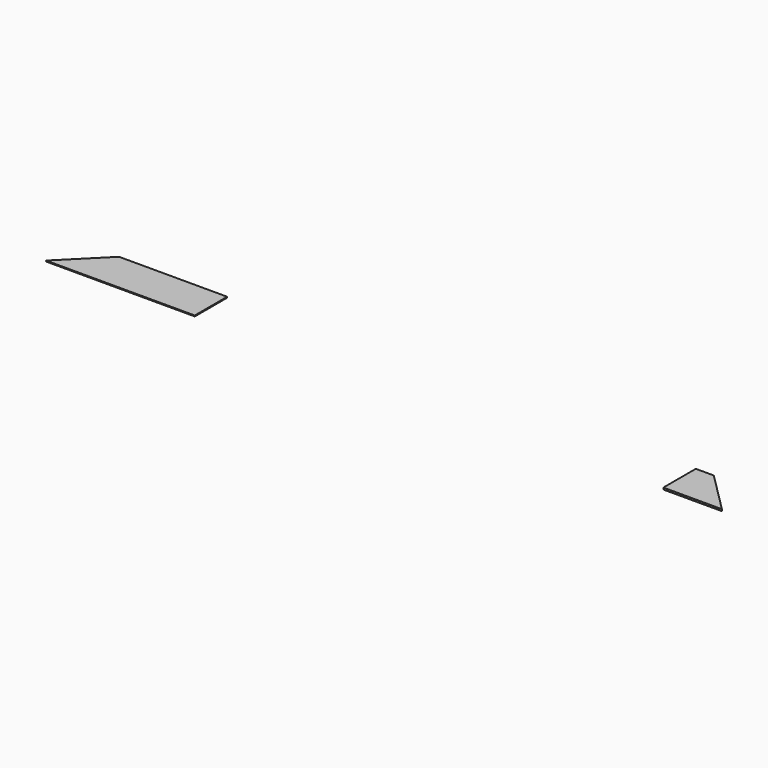
from build123d import *

# Parameters (mm, degrees)
F0_W     = 50.8
F0_H     = 114.3
F0_W_2   = 304.8
F1_DEPTH = 2.54
F2_DEPTH = 2.54


with BuildPart() as f1:
    # F0 (on Top) → F1 (new body)
    with BuildSketch(Plane.XY):
        with Locations((1498.6, 0)):
            Rectangle(F0_W, F0_H)
        Rectangle(F0_W_2, F0_H)
        Polygon((-266.7, -57.15), (-152.4, -57.15), (-152.4, 57.15), align=None)
        Polygon((1638.3, -57.15), (1524, 57.15), (1524, -57.15), align=None)
    extrude(amount=F1_DEPTH)

    # F1_face (on face) → F2 (join)
    with BuildSketch(Plane(origin=(1532.217647, -10.085294, 2.54), x_dir=(1, 0, 0), z_dir=(0, 0, 1))):
        Polygon((-8.217647, 67.235294), (-59.017647, 67.235294), (-59.017647, -47.064706), (106.082353, -47.064706), align=None)
    extrude(amount=F2_DEPTH)


solid = f1.part
